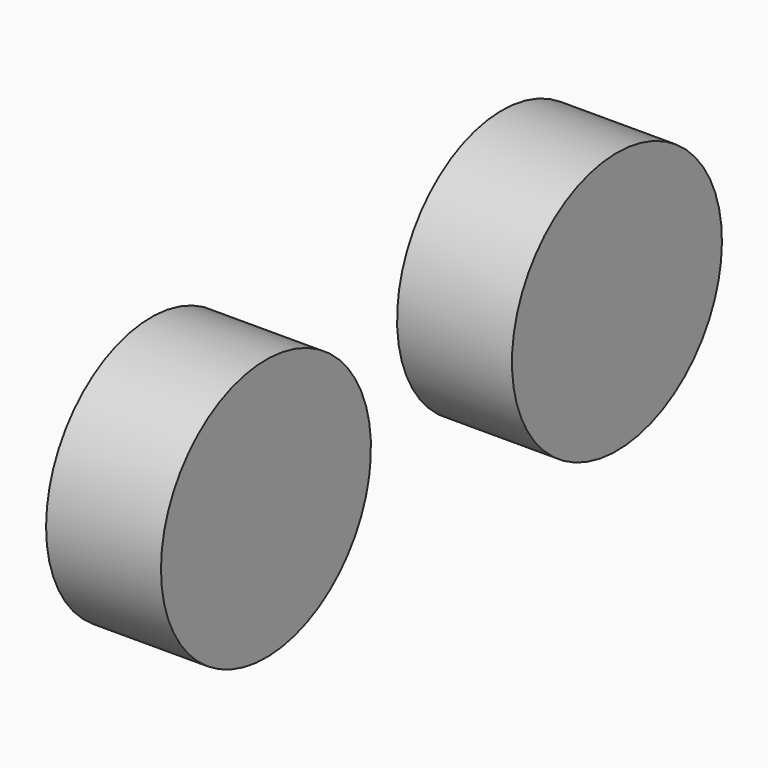
from build123d import *

# Parameters (mm, degrees)
F1_DEPTH = 12.5
F2_DEPTH = 153.2474160194


with BuildPart() as f1:
    # F0 (on Right) → F1 (new body, symmetric)
    with BuildSketch(Plane.YZ):
        with BuildLine():
            ThreePointArc((-835.7973701247, 0), (-906.2749416081, 210.6352581032), (-1089.3242955887, 336.4415935784))
            ThreePointArc((-1089.3242955887, 336.4415935784), (-1465.3197986413, -210.6352581032), (-835.7973701247, 0))
        make_face()
    extrude(amount=F1_DEPTH, both=True)

    # F1_face (on face) + F0 (on Right) → F2 (join, symmetric)
    with BuildSketch(Plane(origin=(12.5, -1185.7973701247, 0), x_dir=(0, 1, 0), z_dir=(1, 0, 0))):
        with BuildLine():
            ThreePointArc((350, 0), (279.5224285166, 210.6352581032), (96.473074536, 336.4415935784))
            ThreePointArc((96.473074536, 336.4415935784), (-279.5224285166, -210.6352581032), (350, 0))
        make_face()
    with BuildSketch(Plane.YZ):
        with BuildLine():
            ThreePointArc((-344.9836036257, -59.045010199), (29.6288603476, -348.7436460131), (350, 0))
            ThreePointArc((350, 0), (157.7044466206, 312.456889052), (-207.8817572348, 281.5762330329))
            Line((-207.8817572347, 281.5762330329), (0, 0))
            Line((0, 0), (-344.9836036257, -59.045010199))
        make_face()
        with BuildLine():
            Line((0, 0), (-207.8817572347, 281.5762330329))
            ThreePointArc((-207.8817572348, 281.5762330329), (-324.6855935287, 130.6876633617), (-344.9836036257, -59.045010199))
            Line((-344.9836036257, -59.045010199), (0, 0))
        make_face()
    extrude(amount=F2_DEPTH, both=True)


solid = f1.part
